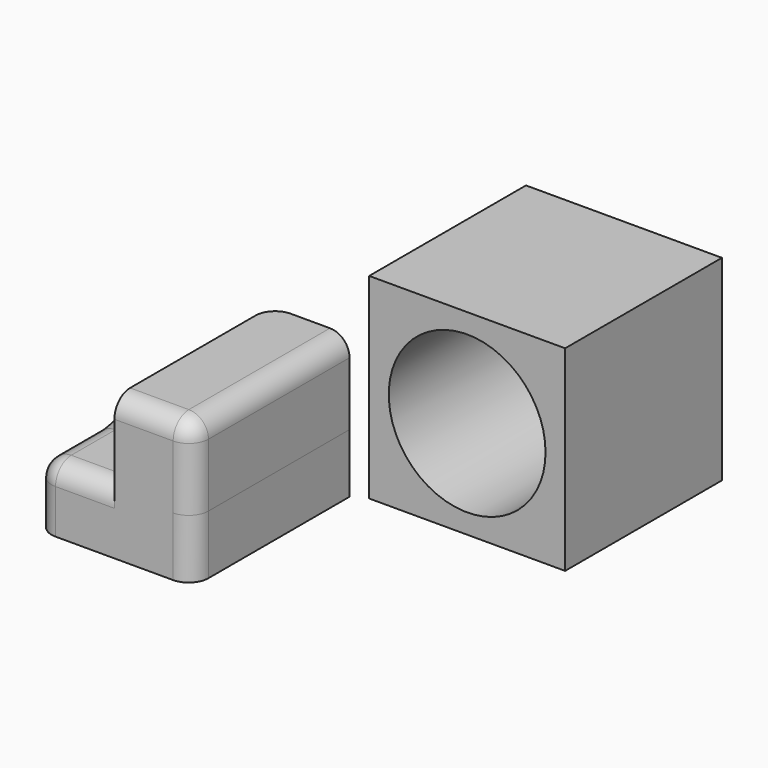
from build123d import *

# Parameters (mm, degrees)
CYLINDER_R           = 4
CYLINDER_DEPTH       = 12
BOX_W                = 10
BOX_H                = 10
BOX_DEPTH            = 10
PAD_DEPTH            = 10
SKETCH002_R          = 1.545954
POCKET_DEPTH         = 3.25198
FILLET_R             = 1
FILLET001_R          = 1
FILLET002_R          = 1
FILLET003_R          = 1
FILLET004_R          = 1
FILLET005_R          = 1
BODY_PLACEMENT_ANGLE = 90


with BuildPart() as cylinder:
    # Cylinder → Cylinder (new body)
    with BuildSketch(Plane(origin=(5, 11, 5), x_dir=(1, 0, 0), z_dir=(0, -1, 0))):
        Circle(CYLINDER_R)
    extrude(amount=CYLINDER_DEPTH)


with BuildPart() as cut:
    # Box → Box (new body)
    with BuildSketch(Plane.XY):
        with Locations((5, 5)):
            Rectangle(BOX_W, BOX_H)
    extrude(amount=BOX_DEPTH)

    # Cut: cut Cylinder
    add(cylinder.part, mode=Mode.SUBTRACT)


with BuildPart() as body:
    # Sketch → Pad (new body)
    with BuildSketch(Plane.XY):
        Polygon((-9, -6), (-9.006237, -9.25098), (-1.006237, -9.25098), (-1.006237, -6.233603), (-1, -2), (-4, -2), (-5, -2), (-5, -6), align=None)
    extrude(amount=PAD_DEPTH)

    # Sketch002 (on Face8 of Pad) → Pocket (cut, through all)
    with BuildSketch(Plane(origin=(0, -6, 0), x_dir=(-1, 0, 0), z_dir=(0, 1, 0))):
        with Locations((7, 5)):
            Circle(SKETCH002_R)
    extrude(amount=-POCKET_DEPTH, mode=Mode.SUBTRACT)

    # Fillet
    fillet_edges = [body.edges().sort_by_distance(p)[0] for p in [
        (-9, -6, 5),
    ]]
    fillet(fillet_edges, radius=FILLET_R)

    # Fillet001
    fillet001_edges = [body.edges().sort_by_distance(p)[0] for p in [
        (-1, -2, 5),
    ]]
    fillet(fillet001_edges, radius=FILLET001_R)

    # Fillet002
    fillet002_edges = [body.edges().sort_by_distance(p)[0] for p in [
        (-5, -4, 0),
    ]]
    fillet(fillet002_edges, radius=FILLET002_R)

    # Fillet003
    fillet003_edges = [body.edges().sort_by_distance(p)[0] for p in [
        (-8.708345, -6.292215, 0),
    ]]
    fillet(fillet003_edges, radius=FILLET003_R)

    # Fillet004
    fillet004_edges = [body.edges().sort_by_distance(p)[0] for p in [
        (-3.000737, -2, 10),
    ]]
    fillet(fillet004_edges, radius=FILLET004_R)

    # Fillet005
    fillet005_edges = [body.edges().sort_by_distance(p)[0] for p in [
        (-6.500958, -6, 10),
    ]]
    fillet(fillet005_edges, radius=FILLET005_R)


with BuildPart() as body_1:
    # Body placement: moved
    add(body.part.moved(Location((0, 0, 9))).rotate(Axis((0, 0, 9), (1, 0, 0)), BODY_PLACEMENT_ANGLE))


solid = Compound([cut.part, body_1.part])
